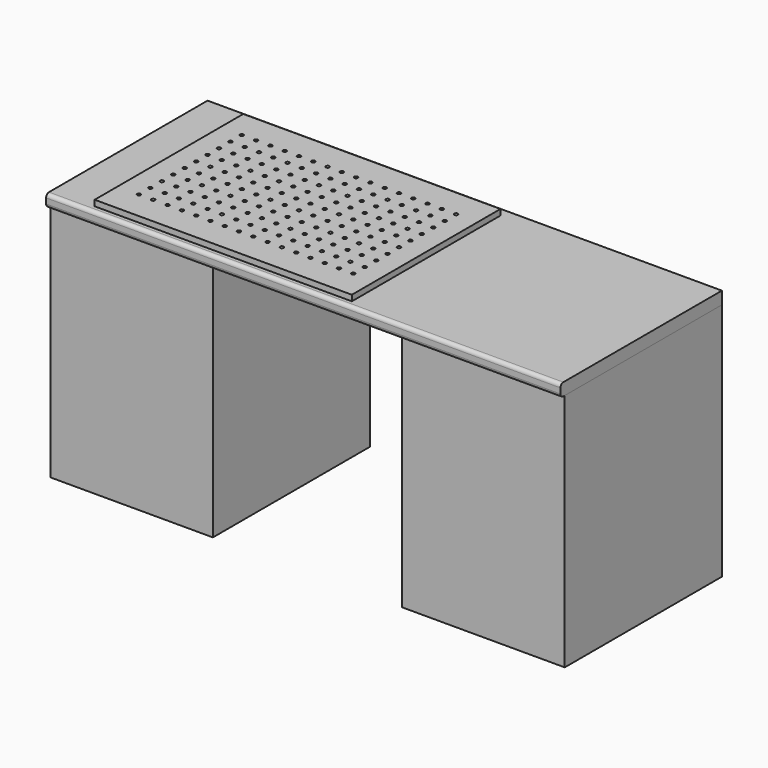
from build123d import *

# Parameters (mm, degrees)
F0_W     = 577.85
F0_H     = 698.5
F1_DEPTH = 850.9
F2_W     = 1828.8
F2_H     = 717.55
F3_DEPTH = 44.45
F4_W     = 914.4
F4_H     = 660.4
F4_R     = 6.35
F5_DEPTH = 20.6375
F6_R     = 12.7


with BuildPart() as f1:
    # F0 (on Top) → F1 (new body)
    with BuildSketch(Plane.XY):
        with Locations((-625.475, -349.25)):
            Rectangle(F0_W, F0_H)
        with Locations((625.475, -349.25)):
            Rectangle(F0_W, F0_H)
    extrude(amount=F1_DEPTH)


with BuildPart() as f3:
    # F2 (on face) → F3 (new body)
    with BuildSketch(Plane.XY.offset(850.9)):
        with Locations((0, -358.775)):
            Rectangle(F2_W, F2_H)
    extrude(amount=F3_DEPTH)

    # F4 (on face) → F5 (join)
    with BuildSketch(Plane.XY.offset(895.35)):
        with Locations((-304.8, -361.95)):
            Rectangle(F4_W, F4_H)
        with Locations((-685.8, -590.55)):
            Circle(F4_R, mode=Mode.SUBTRACT)
        with Locations((-685.8, -539.75)):
            Circle(F4_R, mode=Mode.SUBTRACT)
        with Locations((-635, -590.55)):
            Circle(F4_R, mode=Mode.SUBTRACT)
        with Locations((-584.2, -590.55)):
            Circle(F4_R, mode=Mode.SUBTRACT)
        with Locations((-635, -539.75)):
            Circle(F4_R, mode=Mode.SUBTRACT)
        with Locations((-584.2, -539.75)):
            Circle(F4_R, mode=Mode.SUBTRACT)
        with Locations((-533.4, -590.55)):
            Circle(F4_R, mode=Mode.SUBTRACT)
        with Locations((-482.6, -590.55)):
            Circle(F4_R, mode=Mode.SUBTRACT)
        with Locations((-431.8, -590.55)):
            Circle(F4_R, mode=Mode.SUBTRACT)
        with Locations((-533.4, -539.75)):
            Circle(F4_R, mode=Mode.SUBTRACT)
        with Locations((-482.6, -539.75)):
            Circle(F4_R, mode=Mode.SUBTRACT)
        with Locations((-431.8, -539.75)):
            Circle(F4_R, mode=Mode.SUBTRACT)
        with Locations((-381, -590.55)):
            Circle(F4_R, mode=Mode.SUBTRACT)
        with Locations((-330.2, -590.55)):
            Circle(F4_R, mode=Mode.SUBTRACT)
        with Locations((-381, -539.75)):
            Circle(F4_R, mode=Mode.SUBTRACT)
        with Locations((-330.2, -539.75)):
            Circle(F4_R, mode=Mode.SUBTRACT)
        with Locations((-685.8, -488.95)):
            Circle(F4_R, mode=Mode.SUBTRACT)
        with Locations((-635, -488.95)):
            Circle(F4_R, mode=Mode.SUBTRACT)
        with Locations((-584.2, -488.95)):
            Circle(F4_R, mode=Mode.SUBTRACT)
        with Locations((-685.8, -438.15)):
            Circle(F4_R, mode=Mode.SUBTRACT)
        with Locations((-685.8, -387.35)):
            Circle(F4_R, mode=Mode.SUBTRACT)
        with Locations((-635, -438.15)):
            Circle(F4_R, mode=Mode.SUBTRACT)
        with Locations((-584.2, -438.15)):
            Circle(F4_R, mode=Mode.SUBTRACT)
        with Locations((-635, -387.35)):
            Circle(F4_R, mode=Mode.SUBTRACT)
        with Locations((-584.2, -387.35)):
            Circle(F4_R, mode=Mode.SUBTRACT)
        with Locations((-533.4, -488.95)):
            Circle(F4_R, mode=Mode.SUBTRACT)
        with Locations((-482.6, -488.95)):
            Circle(F4_R, mode=Mode.SUBTRACT)
        with Locations((-431.8, -488.95)):
            Circle(F4_R, mode=Mode.SUBTRACT)
        with Locations((-381, -488.95)):
            Circle(F4_R, mode=Mode.SUBTRACT)
        with Locations((-330.2, -488.95)):
            Circle(F4_R, mode=Mode.SUBTRACT)
        with Locations((-533.4, -438.15)):
            Circle(F4_R, mode=Mode.SUBTRACT)
        with Locations((-482.6, -438.15)):
            Circle(F4_R, mode=Mode.SUBTRACT)
        with Locations((-431.8, -438.15)):
            Circle(F4_R, mode=Mode.SUBTRACT)
        with Locations((-533.4, -387.35)):
            Circle(F4_R, mode=Mode.SUBTRACT)
        with Locations((-482.6, -387.35)):
            Circle(F4_R, mode=Mode.SUBTRACT)
        with Locations((-431.8, -387.35)):
            Circle(F4_R, mode=Mode.SUBTRACT)
        with Locations((-381, -438.15)):
            Circle(F4_R, mode=Mode.SUBTRACT)
        with Locations((-330.2, -438.15)):
            Circle(F4_R, mode=Mode.SUBTRACT)
        with Locations((-381, -387.35)):
            Circle(F4_R, mode=Mode.SUBTRACT)
        with Locations((-330.2, -387.35)):
            Circle(F4_R, mode=Mode.SUBTRACT)
        with Locations((-279.4, -590.55)):
            Circle(F4_R, mode=Mode.SUBTRACT)
        with Locations((-228.6, -590.55)):
            Circle(F4_R, mode=Mode.SUBTRACT)
        with Locations((-279.4, -539.75)):
            Circle(F4_R, mode=Mode.SUBTRACT)
        with Locations((-228.6, -539.75)):
            Circle(F4_R, mode=Mode.SUBTRACT)
        with Locations((-177.8, -590.55)):
            Circle(F4_R, mode=Mode.SUBTRACT)
        with Locations((-127, -590.55)):
            Circle(F4_R, mode=Mode.SUBTRACT)
        with Locations((-76.2, -590.55)):
            Circle(F4_R, mode=Mode.SUBTRACT)
        with Locations((-177.8, -539.75)):
            Circle(F4_R, mode=Mode.SUBTRACT)
        with Locations((-127, -539.75)):
            Circle(F4_R, mode=Mode.SUBTRACT)
        with Locations((-76.2, -539.75)):
            Circle(F4_R, mode=Mode.SUBTRACT)
        with Locations((-25.4, -590.55)):
            Circle(F4_R, mode=Mode.SUBTRACT)
        with Locations((25.4, -590.55)):
            Circle(F4_R, mode=Mode.SUBTRACT)
        with Locations((-25.4, -539.75)):
            Circle(F4_R, mode=Mode.SUBTRACT)
        with Locations((25.4, -539.75)):
            Circle(F4_R, mode=Mode.SUBTRACT)
        with Locations((76.2, -590.55)):
            Circle(F4_R, mode=Mode.SUBTRACT)
        with Locations((76.2, -539.75)):
            Circle(F4_R, mode=Mode.SUBTRACT)
        with Locations((-279.4, -488.95)):
            Circle(F4_R, mode=Mode.SUBTRACT)
        with Locations((-228.6, -488.95)):
            Circle(F4_R, mode=Mode.SUBTRACT)
        with Locations((-177.8, -488.95)):
            Circle(F4_R, mode=Mode.SUBTRACT)
        with Locations((-127, -488.95)):
            Circle(F4_R, mode=Mode.SUBTRACT)
        with Locations((-76.2, -488.95)):
            Circle(F4_R, mode=Mode.SUBTRACT)
        with Locations((-279.4, -438.15)):
            Circle(F4_R, mode=Mode.SUBTRACT)
        with Locations((-228.6, -438.15)):
            Circle(F4_R, mode=Mode.SUBTRACT)
        with Locations((-279.4, -387.35)):
            Circle(F4_R, mode=Mode.SUBTRACT)
        with Locations((-228.6, -387.35)):
            Circle(F4_R, mode=Mode.SUBTRACT)
        with Locations((-177.8, -438.15)):
            Circle(F4_R, mode=Mode.SUBTRACT)
        with Locations((-127, -438.15)):
            Circle(F4_R, mode=Mode.SUBTRACT)
        with Locations((-76.2, -438.15)):
            Circle(F4_R, mode=Mode.SUBTRACT)
        with Locations((-177.8, -387.35)):
            Circle(F4_R, mode=Mode.SUBTRACT)
        with Locations((-127, -387.35)):
            Circle(F4_R, mode=Mode.SUBTRACT)
        with Locations((-76.2, -387.35)):
            Circle(F4_R, mode=Mode.SUBTRACT)
        with Locations((-25.4, -488.95)):
            Circle(F4_R, mode=Mode.SUBTRACT)
        with Locations((25.4, -488.95)):
            Circle(F4_R, mode=Mode.SUBTRACT)
        with Locations((76.2, -488.95)):
            Circle(F4_R, mode=Mode.SUBTRACT)
        with Locations((-25.4, -438.15)):
            Circle(F4_R, mode=Mode.SUBTRACT)
        with Locations((25.4, -438.15)):
            Circle(F4_R, mode=Mode.SUBTRACT)
        with Locations((-25.4, -387.35)):
            Circle(F4_R, mode=Mode.SUBTRACT)
        with Locations((25.4, -387.35)):
            Circle(F4_R, mode=Mode.SUBTRACT)
        with Locations((76.2, -438.15)):
            Circle(F4_R, mode=Mode.SUBTRACT)
        with Locations((76.2, -387.35)):
            Circle(F4_R, mode=Mode.SUBTRACT)
        with Locations((-685.8, -336.55)):
            Circle(F4_R, mode=Mode.SUBTRACT)
        with Locations((-685.8, -285.75)):
            Circle(F4_R, mode=Mode.SUBTRACT)
        with Locations((-635, -336.55)):
            Circle(F4_R, mode=Mode.SUBTRACT)
        with Locations((-584.2, -336.55)):
            Circle(F4_R, mode=Mode.SUBTRACT)
        with Locations((-635, -285.75)):
            Circle(F4_R, mode=Mode.SUBTRACT)
        with Locations((-584.2, -285.75)):
            Circle(F4_R, mode=Mode.SUBTRACT)
        with Locations((-685.8, -234.95)):
            Circle(F4_R, mode=Mode.SUBTRACT)
        with Locations((-635, -234.95)):
            Circle(F4_R, mode=Mode.SUBTRACT)
        with Locations((-584.2, -234.95)):
            Circle(F4_R, mode=Mode.SUBTRACT)
        with Locations((-533.4, -336.55)):
            Circle(F4_R, mode=Mode.SUBTRACT)
        with Locations((-482.6, -336.55)):
            Circle(F4_R, mode=Mode.SUBTRACT)
        with Locations((-431.8, -336.55)):
            Circle(F4_R, mode=Mode.SUBTRACT)
        with Locations((-533.4, -285.75)):
            Circle(F4_R, mode=Mode.SUBTRACT)
        with Locations((-482.6, -285.75)):
            Circle(F4_R, mode=Mode.SUBTRACT)
        with Locations((-431.8, -285.75)):
            Circle(F4_R, mode=Mode.SUBTRACT)
        with Locations((-381, -336.55)):
            Circle(F4_R, mode=Mode.SUBTRACT)
        with Locations((-330.2, -336.55)):
            Circle(F4_R, mode=Mode.SUBTRACT)
        with Locations((-381, -285.75)):
            Circle(F4_R, mode=Mode.SUBTRACT)
        with Locations((-330.2, -285.75)):
            Circle(F4_R, mode=Mode.SUBTRACT)
        with Locations((-533.4, -234.95)):
            Circle(F4_R, mode=Mode.SUBTRACT)
        with Locations((-482.6, -234.95)):
            Circle(F4_R, mode=Mode.SUBTRACT)
        with Locations((-431.8, -234.95)):
            Circle(F4_R, mode=Mode.SUBTRACT)
        with Locations((-381, -234.95)):
            Circle(F4_R, mode=Mode.SUBTRACT)
        with Locations((-330.2, -234.95)):
            Circle(F4_R, mode=Mode.SUBTRACT)
        with Locations((-685.8, -184.15)):
            Circle(F4_R, mode=Mode.SUBTRACT)
        with Locations((-685.8, -133.35)):
            Circle(F4_R, mode=Mode.SUBTRACT)
        with Locations((-635, -184.15)):
            Circle(F4_R, mode=Mode.SUBTRACT)
        with Locations((-584.2, -184.15)):
            Circle(F4_R, mode=Mode.SUBTRACT)
        with Locations((-635, -133.35)):
            Circle(F4_R, mode=Mode.SUBTRACT)
        with Locations((-584.2, -133.35)):
            Circle(F4_R, mode=Mode.SUBTRACT)
        with Locations((-533.4, -184.15)):
            Circle(F4_R, mode=Mode.SUBTRACT)
        with Locations((-482.6, -184.15)):
            Circle(F4_R, mode=Mode.SUBTRACT)
        with Locations((-431.8, -184.15)):
            Circle(F4_R, mode=Mode.SUBTRACT)
        with Locations((-533.4, -133.35)):
            Circle(F4_R, mode=Mode.SUBTRACT)
        with Locations((-482.6, -133.35)):
            Circle(F4_R, mode=Mode.SUBTRACT)
        with Locations((-431.8, -133.35)):
            Circle(F4_R, mode=Mode.SUBTRACT)
        with Locations((-381, -184.15)):
            Circle(F4_R, mode=Mode.SUBTRACT)
        with Locations((-330.2, -184.15)):
            Circle(F4_R, mode=Mode.SUBTRACT)
        with Locations((-381, -133.35)):
            Circle(F4_R, mode=Mode.SUBTRACT)
        with Locations((-330.2, -133.35)):
            Circle(F4_R, mode=Mode.SUBTRACT)
        with Locations((-279.4, -336.55)):
            Circle(F4_R, mode=Mode.SUBTRACT)
        with Locations((-228.6, -336.55)):
            Circle(F4_R, mode=Mode.SUBTRACT)
        with Locations((-279.4, -285.75)):
            Circle(F4_R, mode=Mode.SUBTRACT)
        with Locations((-228.6, -285.75)):
            Circle(F4_R, mode=Mode.SUBTRACT)
        with Locations((-177.8, -336.55)):
            Circle(F4_R, mode=Mode.SUBTRACT)
        with Locations((-127, -336.55)):
            Circle(F4_R, mode=Mode.SUBTRACT)
        with Locations((-76.2, -336.55)):
            Circle(F4_R, mode=Mode.SUBTRACT)
        with Locations((-177.8, -285.75)):
            Circle(F4_R, mode=Mode.SUBTRACT)
        with Locations((-127, -285.75)):
            Circle(F4_R, mode=Mode.SUBTRACT)
        with Locations((-76.2, -285.75)):
            Circle(F4_R, mode=Mode.SUBTRACT)
        with Locations((-279.4, -234.95)):
            Circle(F4_R, mode=Mode.SUBTRACT)
        with Locations((-228.6, -234.95)):
            Circle(F4_R, mode=Mode.SUBTRACT)
        with Locations((-177.8, -234.95)):
            Circle(F4_R, mode=Mode.SUBTRACT)
        with Locations((-127, -234.95)):
            Circle(F4_R, mode=Mode.SUBTRACT)
        with Locations((-76.2, -234.95)):
            Circle(F4_R, mode=Mode.SUBTRACT)
        with Locations((-25.4, -336.55)):
            Circle(F4_R, mode=Mode.SUBTRACT)
        with Locations((25.4, -336.55)):
            Circle(F4_R, mode=Mode.SUBTRACT)
        with Locations((-25.4, -285.75)):
            Circle(F4_R, mode=Mode.SUBTRACT)
        with Locations((25.4, -285.75)):
            Circle(F4_R, mode=Mode.SUBTRACT)
        with Locations((76.2, -336.55)):
            Circle(F4_R, mode=Mode.SUBTRACT)
        with Locations((76.2, -285.75)):
            Circle(F4_R, mode=Mode.SUBTRACT)
        with Locations((-25.4, -234.95)):
            Circle(F4_R, mode=Mode.SUBTRACT)
        with Locations((25.4, -234.95)):
            Circle(F4_R, mode=Mode.SUBTRACT)
        with Locations((76.2, -234.95)):
            Circle(F4_R, mode=Mode.SUBTRACT)
        with Locations((-279.4, -184.15)):
            Circle(F4_R, mode=Mode.SUBTRACT)
        with Locations((-228.6, -184.15)):
            Circle(F4_R, mode=Mode.SUBTRACT)
        with Locations((-279.4, -133.35)):
            Circle(F4_R, mode=Mode.SUBTRACT)
        with Locations((-228.6, -133.35)):
            Circle(F4_R, mode=Mode.SUBTRACT)
        with Locations((-177.8, -184.15)):
            Circle(F4_R, mode=Mode.SUBTRACT)
        with Locations((-127, -184.15)):
            Circle(F4_R, mode=Mode.SUBTRACT)
        with Locations((-76.2, -184.15)):
            Circle(F4_R, mode=Mode.SUBTRACT)
        with Locations((-177.8, -133.35)):
            Circle(F4_R, mode=Mode.SUBTRACT)
        with Locations((-127, -133.35)):
            Circle(F4_R, mode=Mode.SUBTRACT)
        with Locations((-76.2, -133.35)):
            Circle(F4_R, mode=Mode.SUBTRACT)
        with Locations((-25.4, -184.15)):
            Circle(F4_R, mode=Mode.SUBTRACT)
        with Locations((25.4, -184.15)):
            Circle(F4_R, mode=Mode.SUBTRACT)
        with Locations((-25.4, -133.35)):
            Circle(F4_R, mode=Mode.SUBTRACT)
        with Locations((25.4, -133.35)):
            Circle(F4_R, mode=Mode.SUBTRACT)
        with Locations((76.2, -184.15)):
            Circle(F4_R, mode=Mode.SUBTRACT)
        with Locations((76.2, -133.35)):
            Circle(F4_R, mode=Mode.SUBTRACT)
    extrude(amount=F5_DEPTH)

    # F6
    f6_edges = [f3.edges().sort_by_distance(p)[0] for p in [
        (0, -717.55, 895.35),
        (0, -717.55, 850.9),
    ]]
    fillet(f6_edges, radius=F6_R)


solid = Compound([f1.part, f3.part])
